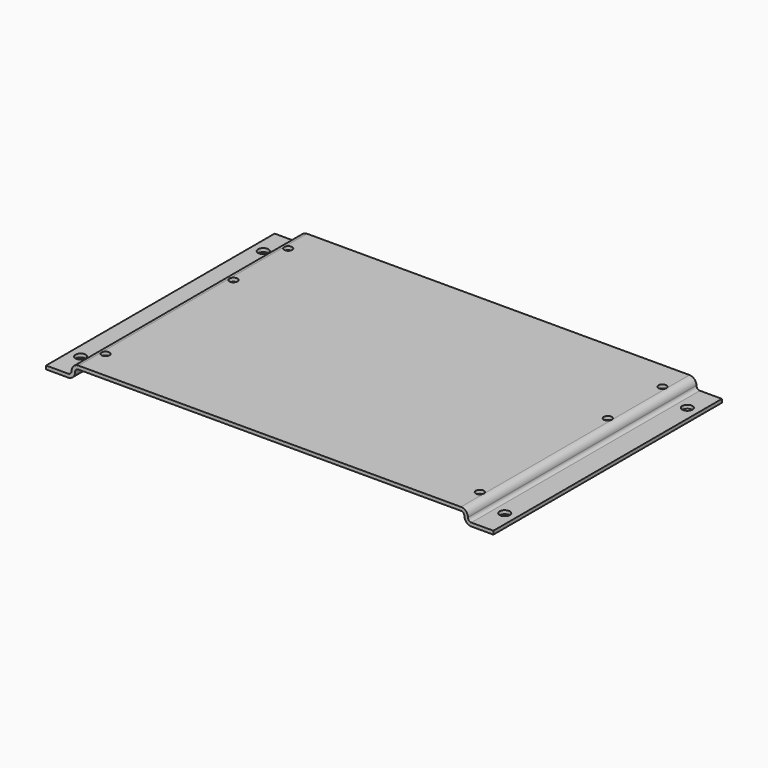
from build123d import *

# Parameters (mm, degrees)
F1_DEPTH = 125.222
F2_R     = 2.25
F3_DEPTH = 1.525
F4_R     = 1.7526
F5_DEPTH = 25.4


with BuildPart() as f1:
    # F0 (on Front) → F1 (new body)
    with BuildSketch(Plane.XZ):
        with BuildLine():
            Line((0, 1.524), (0, 0))
            Line((0, 0), (9.652, 0))
            ThreePointArc((9.652, 0), (11.807261, 0.892739), (12.7, 3.048))
            ThreePointArc((12.7, 3.048), (13.146369, 4.125631), (14.224, 4.572))
            Line((14.224, 4.572), (181.864, 4.572))
            ThreePointArc((181.864, 4.572), (182.941631, 4.125631), (183.388, 3.048))
            ThreePointArc((183.388, 3.048), (184.280739, 0.892739), (186.436, 0))
            Line((186.436, 0), (196.088, 0))
            Line((196.088, 0), (196.088, 1.524))
            Line((196.088, 1.524), (186.436, 1.524))
            ThreePointArc((186.436, 1.524), (185.358369, 1.970369), (184.912, 3.048))
            ThreePointArc((184.912, 3.048), (184.019261, 5.203261), (181.864, 6.096))
            Line((181.864, 6.096), (14.224, 6.096))
            ThreePointArc((14.224, 6.096), (12.068739, 5.203261), (11.176, 3.048))
            ThreePointArc((11.176, 3.048), (10.729631, 1.970369), (9.652, 1.524))
            Line((9.652, 1.524), (0, 1.524))
        make_face()
    extrude(amount=F1_DEPTH)

    # F2 (on face) → F3 (cut, through all)
    with BuildSketch(Plane.XY.offset(1.524)):
        with Locations((5.08, -112.649)):
            Circle(F2_R)
        with Locations((191.008, -112.649)):
            Circle(F2_R)
        with Locations((191.008, -12.573)):
            Circle(F2_R)
        with Locations((5.08, -12.573)):
            Circle(F2_R)
    extrude(amount=-F3_DEPTH, mode=Mode.SUBTRACT)

    # F4 (on face) → F5 (cut)
    with BuildSketch(Plane.XY.offset(6.096)):
        with Locations((16.002, -12.573)):
            Circle(F4_R)
        with Locations((16.002, -42.545)):
            Circle(F4_R)
        with Locations((16.002, -112.649)):
            Circle(F4_R)
        with Locations((180.086, -112.649)):
            Circle(F4_R)
        with Locations((180.086, -42.545)):
            Circle(F4_R)
        with Locations((180.086, -12.573)):
            Circle(F4_R)
    extrude(amount=-F5_DEPTH, mode=Mode.SUBTRACT)


solid = f1.part
